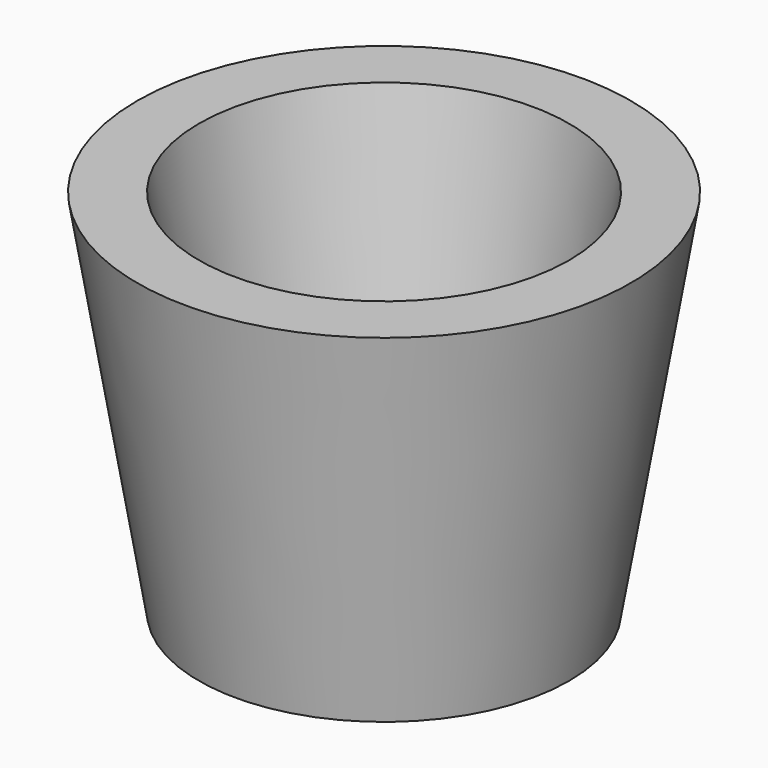
from build123d import *

# Parameters (mm, degrees)
F2_R     = 6.234373
F3_DEPTH = 60.008501


with BuildPart() as f1:
    # F0 (on Front) → F1 (revolve)
    with BuildSketch(Plane.XZ):
        Polygon((-30, 0), (0, 0), (0, 4.884331), (-21.346543, 8.080269), (-30, 60.007501), (-40, 60.007501), align=None)
    revolve(axis=Axis((0, 0, 2.442166), (0, 0, 1)))

    # F2 (on face) → F3 (cut, through all)
    with BuildSketch(Plane(origin=(0, 0, 0), x_dir=(1, 0, 0), z_dir=(0, 0, -1))):
        Circle(F2_R)
    extrude(amount=-F3_DEPTH, mode=Mode.SUBTRACT)


solid = f1.part
